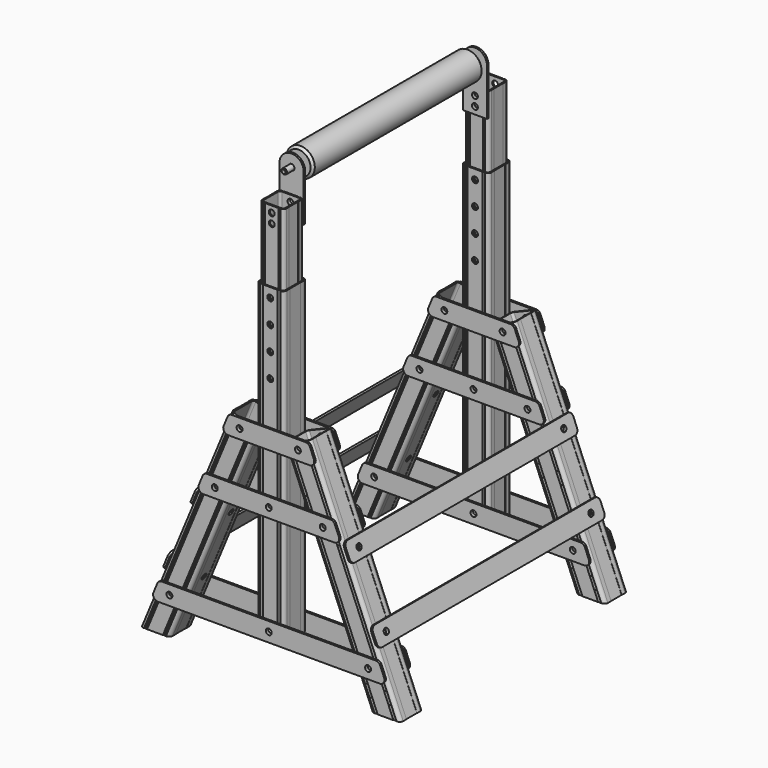
from build123d import *

# Parameters (mm, degrees)
F0_R      = 6.25
F1_DEPTH  = 60
F2_R      = 6.25
F3_DEPTH  = 57.7
F4_R      = 7.5
F6_DEPTH  = 501
F7_W      = 57.7
F7_H      = 653.6524637726
F7_R      = 6.25
F8_DEPTH  = 60
F9_R      = 7.5
F11_DEPTH = 653.6524637726
F15_W     = 51
F15_H     = 540
F15_R     = 6.25
F16_DEPTH = 26.15
F17_R     = 7.5
F19_DEPTH = 540
F21_R     = 6.25
F22_DEPTH = 4
F23_R     = 10
F23_2_R   = 10
F23_3_R   = 10
F25_R     = 6.25
F26_DEPTH = 4
F29_W     = 600
F29_H     = 40
F29_R     = 6.25
F30_DEPTH = 4
F31_R     = 10
F31_2_R   = 10
F34_R     = 5.9
F35_DEPTH = 265
F36_R     = 30
F36_R_2   = 6.25
F37_DEPTH = 225
F38_SIZE  = 2
F39_SIZE  = 5


with BuildPart() as f1:
    # F0 (on Front) → F1 (new body)
    with BuildSketch(Plane.XZ):
        Polygon((-62.4540299569, 0), (0, 0), (-191.3417161825, 461.9397662556), (-244.6495652084, 439.8589322082), align=None)
        with Locations((-64.9222677495, 81.3475362274)):
            Circle(F0_R, mode=Mode.SUBTRACT)
        with Locations((-160.5931258407, 312.3174193552)):
            Circle(F0_R, mode=Mode.SUBTRACT)
        with Locations((-213.0207560747, 438.8889153093)):
            Circle(F0_R, mode=Mode.SUBTRACT)
    extrude(amount=F1_DEPTH)

    # F2 (on face) → F3 (cut, through all)
    with BuildSketch(Plane(origin=(0, 0, 0), x_dir=(0, 1, 0), z_dir=(0.9238795325, 0, 0.3826834324))):
        with Locations((-30, 150)):
            Circle(F2_R)
        with Locations((-30, 300)):
            Circle(F2_R)
    extrude(amount=-F3_DEPTH, mode=Mode.SUBTRACT)

    # F4
    f4_edges = [f1.edges().sort_by_distance(p)[0] for p in [
        (-153.551798, -60, 219.929466),
        (-95.670858, -60, 230.969883),
        (-153.551798, 0, 219.929466),
        (-95.670858, 0, 230.969883),
    ]]
    fillet(f4_edges, radius=F4_R)

    # F5 (on face) → F6 (cut, up to face)
    with BuildSketch(Plane(origin=(-191.3417161825, 0, 461.9397662556), x_dir=(0.9238795325, 0, 0.3826834324), z_dir=(-0.3826834324, 0, 0.9238795325))):
        Polygon((-45.2, -59), (-46.2, -60), (-44.2, -60), align=None)
        Polygon((-47.2, -59), (-48.2, -60), (-46.2, -60), align=None)
        Polygon((-49.2, -59), (-50.2, -60), (-48.2, -60), align=None)
        Polygon((-8.5, -59), (-9.5, -60), (-7.5, -60), align=None)
        Polygon((-10.5, -59), (-11.5, -60), (-9.5, -60), align=None)
        Polygon((-12.5, -59), (-13.5, -60), (-11.5, -60), align=None)
        Polygon((-0.3, -44), (0, -44), (0, -16), (-0.3, -16), (-0.3, -30), align=None)
        Polygon((-57.4, -44), (-57.4, -30), (-57.4, -16), (-57.7, -16), (-57.7, -44), align=None)
        Polygon((-48.2, 0), (-50.2, 0), (-49.2, -1), align=None)
        Polygon((-46.2, 0), (-48.2, 0), (-47.2, -1), align=None)
        Polygon((-44.2, 0), (-46.2, 0), (-45.2, -1), align=None)
        Polygon((-7.5, 0), (-9.5, 0), (-8.5, -1), align=None)
        Polygon((-9.5, 0), (-11.5, 0), (-10.5, -1), align=None)
        Polygon((-11.5, 0), (-13.5, 0), (-12.5, -1), align=None)
        with BuildLine():
            Line((-54.8, -30), (-54.8, -52.5))
            ThreePointArc((-54.8, -52.5), (-53.4526911935, -55.7526911935), (-50.2, -57.1))
            Line((-50.2, -57.1), (-28.85, -57.1))
            Line((-28.85, -57.1), (-7.5, -57.1))
            ThreePointArc((-7.5, -57.1), (-4.2473088065, -55.7526911935), (-2.9, -52.5))
            Line((-2.9, -52.5), (-2.9, -30))
            Line((-2.9, -30), (-2.9, -7.5))
            ThreePointArc((-2.9, -7.5), (-4.2473088065, -4.2473088065), (-7.5, -2.9))
            Line((-7.5, -2.9), (-28.85, -2.9))
            Line((-28.85, -2.9), (-50.2, -2.9))
            ThreePointArc((-50.2, -2.9), (-53.4526911935, -4.2473088065), (-54.8, -7.5))
            Line((-54.8, -7.5), (-54.8, -30))
        make_face()
    extrude(amount=-F6_DEPTH, mode=Mode.SUBTRACT)


with BuildPart() as f8:
    # F7 (on face) → F8 (new body)
    with BuildSketch(Plane.XZ.offset(60)):
        with Locations((-274.4995652084, 393.1737681137)):
            Rectangle(F7_W, F7_H)
        with Locations((-274.4995652084, 81.3475362274)):
            Circle(F7_R, mode=Mode.SUBTRACT)
        with Locations((-274.4995652084, 312.3174193552)):
            Circle(F7_R, mode=Mode.SUBTRACT)
        with Locations((-274.4995652084, 600)):
            Circle(F7_R, mode=Mode.SUBTRACT)
        with Locations((-274.4995652084, 650)):
            Circle(F7_R, mode=Mode.SUBTRACT)
        with Locations((-274.4995652084, 700)):
            Circle(F7_R, mode=Mode.SUBTRACT)
        with Locations((-274.4995652084, 550)):
            Circle(F7_R, mode=Mode.SUBTRACT)
    extrude(amount=-F8_DEPTH)

    # F9
    f9_edges = [f8.edges().sort_by_distance(p)[0] for p in [
        (-303.349565, 0, 393.173768),
        (-303.349565, -60, 393.173768),
        (-245.649565, -60, 393.173768),
        (-245.649565, 0, 393.173768),
    ]]
    fillet(f9_edges, radius=F9_R)

    # F10 (on face) → F11 (cut, through all)
    with BuildSketch(Plane.XY.offset(720)):
        Polygon((-290.8495652084, -59), (-291.8495652084, -60), (-289.8495652084, -60), align=None)
        Polygon((-292.8495652084, -59), (-293.8495652084, -60), (-291.8495652084, -60), align=None)
        Polygon((-294.8495652084, -59), (-295.8495652084, -60), (-293.8495652084, -60), align=None)
        Polygon((-303.3495652084, -16), (-303.3495652084, -44), (-303.0495652084, -44), (-303.0495652084, -30), (-303.0495652084, -16), align=None)
        Polygon((-254.1495652084, -59), (-255.1495652084, -60), (-253.1495652084, -60), align=None)
        Polygon((-256.1495652084, -59), (-257.1495652084, -60), (-255.1495652084, -60), align=None)
        Polygon((-258.1495652084, -59), (-259.1495652084, -60), (-257.1495652084, -60), align=None)
        Polygon((-245.9495652084, -44), (-245.6495652084, -44), (-245.6495652084, -16), (-245.9495652084, -16), (-245.9495652084, -30), align=None)
        Polygon((-253.1495652084, 0), (-255.1495652084, 0), (-254.1495652084, -1), align=None)
        Polygon((-255.1495652084, 0), (-257.1495652084, 0), (-256.1495652084, -1), align=None)
        Polygon((-257.1495652084, 0), (-259.1495652084, 0), (-258.1495652084, -1), align=None)
        Polygon((-293.8495652084, 0), (-295.8495652084, 0), (-294.8495652084, -1), align=None)
        Polygon((-291.8495652084, 0), (-293.8495652084, 0), (-292.8495652084, -1), align=None)
        Polygon((-289.8495652084, 0), (-291.8495652084, 0), (-290.8495652084, -1), align=None)
        with BuildLine():
            Line((-300.4495652084, -30), (-300.4495652084, -52.5))
            ThreePointArc((-300.4495652084, -52.5), (-299.1022564019, -55.7526911935), (-295.8495652084, -57.1))
            Line((-295.8495652084, -57.1), (-274.4995652084, -57.1))
            Line((-274.4995652084, -57.1), (-253.1495652084, -57.1))
            ThreePointArc((-253.1495652084, -57.1), (-249.896874015, -55.7526911935), (-248.5495652084, -52.5))
            Line((-248.5495652084, -52.5), (-248.5495652084, -30))
            Line((-248.5495652084, -30), (-248.5495652084, -7.5))
            ThreePointArc((-248.5495652084, -7.5), (-249.896874015, -4.2473088065), (-253.1495652084, -2.9))
            Line((-253.1495652084, -2.9), (-274.4995652084, -2.9))
            Line((-274.4995652084, -2.9), (-295.8495652084, -2.9))
            ThreePointArc((-295.8495652084, -2.9), (-299.1022564019, -4.2473088065), (-300.4495652084, -7.5))
            Line((-300.4495652084, -7.5), (-300.4495652084, -30))
        make_face()
    extrude(amount=-F11_DEPTH, mode=Mode.SUBTRACT)


with BuildPart() as f16:
    # F15 (on mid) → F16 (new body, symmetric)
    with BuildSketch(Plane(origin=(0, -30, 0), x_dir=(-1, 0, 0), z_dir=(0, 1, 0))):
        with Locations((274.4995652084, 600)):
            Rectangle(F15_W, F15_H)
        with Locations((274.4995652084, 350)):
            Circle(F15_R, mode=Mode.SUBTRACT)
        with Locations((274.4995652084, 400)):
            Circle(F15_R, mode=Mode.SUBTRACT)
        with Locations((274.4995652084, 450)):
            Circle(F15_R, mode=Mode.SUBTRACT)
        with Locations((274.4995652084, 500)):
            Circle(F15_R, mode=Mode.SUBTRACT)
        with Locations((274.4995652084, 550)):
            Circle(F15_R, mode=Mode.SUBTRACT)
        with Locations((274.4995652084, 600)):
            Circle(F15_R, mode=Mode.SUBTRACT)
        with Locations((274.4995652084, 650)):
            Circle(F15_R, mode=Mode.SUBTRACT)
        with Locations((274.4995652084, 700)):
            Circle(F15_R, mode=Mode.SUBTRACT)
        with Locations((274.4995652084, 836.25)):
            Circle(F15_R, mode=Mode.SUBTRACT)
        with Locations((274.4995652084, 856.25)):
            Circle(F15_R, mode=Mode.SUBTRACT)
    extrude(amount=F16_DEPTH, both=True)

    # F17
    f17_edges = [f16.edges().sort_by_distance(p)[0] for p in [
        (-248.999565, -56.15, 600),
        (-299.999565, -56.15, 600),
        (-248.999565, -3.85, 600),
        (-299.999565, -3.85, 600),
    ]]
    fillet(f17_edges, radius=F17_R)

    # F18 (on face) → F19 (cut, through all)
    with BuildSketch(Plane.XY.offset(870)):
        Polygon((-248.9995652084, -42.15), (-248.9995652084, -17.85), (-249.2495652084, -17.85), (-249.2495652084, -30), (-249.2495652084, -42.15), align=None)
        Polygon((-299.7495652084, -17.85), (-299.9995652084, -17.85), (-299.9995652084, -42.15), (-299.7495652084, -42.15), (-299.7495652084, -30), align=None)
        Polygon((-292.4995652084, -56.15), (-290.4995652084, -56.15), (-291.4995652084, -55.15), align=None)
        Polygon((-290.4995652084, -56.15), (-288.4995652084, -56.15), (-289.4995652084, -55.15), align=None)
        Polygon((-258.4995652084, -56.15), (-256.4995652084, -56.15), (-257.4995652084, -55.15), align=None)
        Polygon((-260.4995652084, -56.15), (-258.4995652084, -56.15), (-259.4995652084, -55.15), align=None)
        Polygon((-257.4995652084, -4.85), (-256.4995652084, -3.85), (-258.4995652084, -3.85), align=None)
        Polygon((-259.4995652084, -4.85), (-258.4995652084, -3.85), (-260.4995652084, -3.85), align=None)
        Polygon((-291.4995652084, -4.85), (-290.4995652084, -3.85), (-292.4995652084, -3.85), align=None)
        Polygon((-289.4995652084, -4.85), (-288.4995652084, -3.85), (-290.4995652084, -3.85), align=None)
        with BuildLine():
            Line((-251.8995652084, -30), (-251.8995652084, -11.35))
            ThreePointArc((-251.8995652084, -11.35), (-253.246874015, -8.0973088065), (-256.4995652084, -6.75))
            Line((-256.4995652084, -6.75), (-274.4995652084, -6.75))
            Line((-274.4995652084, -6.75), (-292.4995652084, -6.75))
            ThreePointArc((-292.4995652084, -6.75), (-295.7522564019, -8.0973088065), (-297.0995652084, -11.35))
            Line((-297.0995652084, -11.35), (-297.0995652084, -30))
            Line((-297.0995652084, -30), (-297.0995652084, -48.65))
            ThreePointArc((-297.0995652084, -48.65), (-295.7522564019, -51.9026911935), (-292.4995652084, -53.25))
            Line((-292.4995652084, -53.25), (-274.4995652084, -53.25))
            Line((-274.4995652084, -53.25), (-256.4995652084, -53.25))
            ThreePointArc((-256.4995652084, -53.25), (-253.246874015, -51.9026911935), (-251.8995652084, -48.65))
            Line((-251.8995652084, -48.65), (-251.8995652084, -30))
        make_face()
    extrude(amount=-F19_DEPTH, mode=Mode.SUBTRACT)


with BuildPart() as f20_1:
    # F20: instance of F1
    add(f1.part.mirror(Plane(origin=(-274.4995652084, -30, 393.1737681137), x_dir=(0, 1, 0), z_dir=(1, 0, 0))))


with BuildPart() as f22:
    # F21 (on face) → F22 (new body)
    with BuildSketch(Plane.XZ.offset(60)):
        Polygon((-137.6503821098, 332.3174193552), (-411.3487483071, 332.3174193552), (-427.9172908021, 292.3174193552), (-121.0818396148, 292.3174193552), align=None)
        with Locations((-388.4060045762, 312.3174193552)):
            Circle(F21_R, mode=Mode.SUBTRACT)
        with Locations((-274.4995652084, 312.3174193552)):
            Circle(F21_R, mode=Mode.SUBTRACT)
        with Locations((-160.5931258407, 312.3174193552)):
            Circle(F21_R, mode=Mode.SUBTRACT)
    extrude(amount=F22_DEPTH)

    # F23#2
    f23_2_edges = [f22.edges().sort_by_distance(p)[0] for p in [
        (-137.650382, -62, 332.317419),
        (-121.08184, -62, 292.317419),
        (-427.917291, -62, 292.317419),
        (-411.348748, -62, 332.317419),
    ]]
    fillet(f23_2_edges, radius=F23_2_R)


with BuildPart() as f22b:
    # F21 (on face) → F22, piece 2 (new body)
    with BuildSketch(Plane.XZ.offset(60)):
        Polygon((-41.9795240185, 101.3475362274), (-507.0196063984, 101.3475362274), (-523.5881488933, 61.3475362274), (-25.4109815236, 61.3475362274), align=None)
        with Locations((-484.0768626674, 81.3475362274)):
            Circle(F21_R, mode=Mode.SUBTRACT)
        with Locations((-274.4995652084, 81.3475362274)):
            Circle(F21_R, mode=Mode.SUBTRACT)
        with Locations((-64.9222677495, 81.3475362274)):
            Circle(F21_R, mode=Mode.SUBTRACT)
    extrude(amount=F22_DEPTH)

    # F23
    f23_edges = [f22b.edges().sort_by_distance(p)[0] for p in [
        (-523.588149, -62, 61.347536),
        (-507.019606, -62, 101.347536),
        (-25.410982, -62, 61.347536),
        (-41.979524, -62, 101.347536),
    ]]
    fillet(f23_edges, radius=F23_R)


with BuildPart() as f22c:
    # F21 (on face) → F22, piece 3 (new body)
    with BuildSketch(Plane.XZ.offset(60)):
        Polygon((-190.0780123438, 458.8889153093), (-358.9211180731, 458.8889153093), (-375.489660568, 418.8889153093), (-173.5094698489, 418.8889153093), align=None)
        with Locations((-335.9783743421, 438.8889153093)):
            Circle(F21_R, mode=Mode.SUBTRACT)
        with Locations((-213.0207560747, 438.8889153093)):
            Circle(F21_R, mode=Mode.SUBTRACT)
    extrude(amount=F22_DEPTH)

    # F23#3
    f23_3_edges = [f22c.edges().sort_by_distance(p)[0] for p in [
        (-358.921118, -62, 458.888915),
        (-375.489661, -62, 418.888915),
        (-190.078012, -62, 458.888915),
        (-173.50947, -62, 418.888915),
    ]]
    fillet(f23_3_edges, radius=F23_3_R)


with BuildPart() as f24_1:
    # F24: instance of F22b
    add(f22b.part.mirror(Plane(origin=(-274.4995652084, -30, 390.7594579348), x_dir=(-1, 0, 0), z_dir=(0, 1, 0))))


with BuildPart() as f24_2:
    # F24: instance of F22
    add(f22.part.mirror(Plane(origin=(-274.4995652084, -30, 390.7594579348), x_dir=(-1, 0, 0), z_dir=(0, 1, 0))))


with BuildPart() as f24_3:
    # F24: instance of F22c
    add(f22c.part.mirror(Plane(origin=(-274.4995652084, -30, 390.7594579348), x_dir=(-1, 0, 0), z_dir=(0, 1, 0))))


with BuildPart() as f26:
    # F25 (on face) → F26 (new body)
    with BuildSketch(Plane.XZ.offset(56.15)):
        with BuildLine():
            Line((-299.9995652084, 920), (-299.9995652084, 821.25))
            Line((-299.9995652084, 821.25), (-248.9995652084, 821.25))
            Line((-248.9995652084, 821.25), (-248.9995652084, 920))
            ThreePointArc((-248.9995652084, 920), (-274.4995652084, 945.5), (-299.9995652084, 920))
        make_face()
        with Locations((-274.4995652084, 836.25)):
            Circle(F25_R, mode=Mode.SUBTRACT)
        with Locations((-274.4995652084, 856.25)):
            Circle(F25_R, mode=Mode.SUBTRACT)
        with Locations((-274.4995652084, 920)):
            Circle(F25_R, mode=Mode.SUBTRACT)
    extrude(amount=F26_DEPTH)


with BuildPart() as f28_1:
    # F28: instance of F1
    add(f1.part.mirror(Plane(origin=(-274.4995652084, -300, 389.7798079408), x_dir=(1, 0, 0), z_dir=(0, 1, 0))))


with BuildPart() as f28_2:
    # F28: instance of F20_1
    add(f20_1.part.mirror(Plane(origin=(-274.4995652084, -300, 389.7798079408), x_dir=(1, 0, 0), z_dir=(0, 1, 0))))


with BuildPart() as f28_3:
    # F28: instance of F22b
    add(f22b.part.mirror(Plane(origin=(-274.4995652084, -300, 389.7798079408), x_dir=(1, 0, 0), z_dir=(0, 1, 0))))


with BuildPart() as f28_4:
    # F28: instance of F22
    add(f22.part.mirror(Plane(origin=(-274.4995652084, -300, 389.7798079408), x_dir=(1, 0, 0), z_dir=(0, 1, 0))))


with BuildPart() as f28_5:
    # F28: instance of F22c
    add(f22c.part.mirror(Plane(origin=(-274.4995652084, -300, 389.7798079408), x_dir=(1, 0, 0), z_dir=(0, 1, 0))))


with BuildPart() as f28_6:
    # F28: instance of F24_2
    add(f24_2.part.mirror(Plane(origin=(-274.4995652084, -300, 389.7798079408), x_dir=(1, 0, 0), z_dir=(0, 1, 0))))


with BuildPart() as f28_7:
    # F28: instance of F24_3
    add(f24_3.part.mirror(Plane(origin=(-274.4995652084, -300, 389.7798079408), x_dir=(1, 0, 0), z_dir=(0, 1, 0))))


with BuildPart() as f28_8:
    # F28: instance of F24_1
    add(f24_1.part.mirror(Plane(origin=(-274.4995652084, -300, 389.7798079408), x_dir=(1, 0, 0), z_dir=(0, 1, 0))))


with BuildPart() as f28_9:
    # F28: instance of F8
    add(f8.part.mirror(Plane(origin=(-274.4995652084, -300, 389.7798079408), x_dir=(1, 0, 0), z_dir=(0, 1, 0))))


with BuildPart() as f28_10:
    # F28: instance of F16
    add(f16.part.mirror(Plane(origin=(-274.4995652084, -300, 389.7798079408), x_dir=(1, 0, 0), z_dir=(0, 1, 0))))


with BuildPart() as f28_11:
    # F28: instance of F26
    add(f26.part.mirror(Plane(origin=(-274.4995652084, -300, 389.7798079408), x_dir=(1, 0, 0), z_dir=(0, 1, 0))))


with BuildPart() as f30:
    # F29 (on face) → F30 (new body)
    with BuildSketch(Plane(origin=(0, 0, 0), x_dir=(0, 1, 0), z_dir=(0.9238795325, 0, 0.3826834324))):
        with Locations((-300, 150)):
            Rectangle(F29_W, F29_H)
        with Locations((-570, 150)):
            Circle(F29_R, mode=Mode.SUBTRACT)
        with Locations((-30, 150)):
            Circle(F29_R, mode=Mode.SUBTRACT)
    extrude(amount=F30_DEPTH)

    # F31
    f31_edges = [f30.edges().sort_by_distance(p)[0] for p in [
        (-63.208424, -600, 157.824887),
        (-47.901087, -600, 120.869706),
        (-63.208424, 0, 157.824887),
        (-47.901087, 0, 120.869706),
    ]]
    fillet(f31_edges, radius=F31_R)


with BuildPart() as f30b:
    # F29 (on face) → F30, piece 2 (new body)
    with BuildSketch(Plane(origin=(0, 0, 0), x_dir=(0, 1, 0), z_dir=(0.9238795325, 0, 0.3826834324))):
        with Locations((-300, 300)):
            Rectangle(F29_W, F29_H)
        with Locations((-570, 300)):
            Circle(F29_R, mode=Mode.SUBTRACT)
        with Locations((-30, 300)):
            Circle(F29_R, mode=Mode.SUBTRACT)
    extrude(amount=F30_DEPTH)

    # F31#2
    f31_2_edges = [f30b.edges().sort_by_distance(p)[0] for p in [
        (-120.610939, -600, 296.406817),
        (-105.303602, -600, 259.451636),
        (-105.303602, 0, 259.451636),
        (-120.610939, 0, 296.406817),
    ]]
    fillet(f31_2_edges, radius=F31_2_R)


with BuildPart() as f33_1:
    # F33: instance of F30
    add(f30.part.mirror(Plane(origin=(-274.4995652084, -30, 600), x_dir=(0, -1, 0), z_dir=(-1, 0, 0))))


with BuildPart() as f33_2:
    # F33: instance of F30b
    add(f30b.part.mirror(Plane(origin=(-274.4995652084, -30, 600), x_dir=(0, -1, 0), z_dir=(-1, 0, 0))))


with BuildPart() as f35:
    # F34 (on offset) → F35 (new body, symmetric)
    with BuildSketch(Plane(origin=(0, -300, 0), x_dir=(-1, 0, 0), z_dir=(0, 1, 0))):
        with Locations((274.4995652084, 920)):
            Circle(F34_R)
    extrude(amount=F35_DEPTH, both=True)

    # F38
    f38_edges = [f35.edges().sort_by_distance(p)[0] for p in [
        (-268.599565, -35, 920),
        (-268.599565, -565, 920),
    ]]
    chamfer(f38_edges, length=F38_SIZE)


with BuildPart() as f37:
    # F36 (on offset) → F37 (new body, symmetric)
    with BuildSketch(Plane(origin=(0, -300, 0), x_dir=(-1, 0, 0), z_dir=(0, 1, 0))):
        with Locations((274.4995652084, 920)):
            Circle(F36_R)
        with Locations((274.4995652084, 920)):
            Circle(F36_R_2, mode=Mode.SUBTRACT)
    extrude(amount=F37_DEPTH, both=True)

    # F39
    f39_edges = [f37.edges().sort_by_distance(p)[0] for p in [
        (-244.499565, -75, 920),
        (-244.499565, -525, 920),
    ]]
    chamfer(f39_edges, length=F39_SIZE)


solid = Compound([f1.part, f8.part, f16.part, f20_1.part, f22.part, f22b.part, f22c.part, f24_1.part, f24_2.part, f24_3.part, f26.part, f28_1.part, f28_2.part, f28_3.part, f28_4.part, f28_5.part, f28_6.part, f28_7.part, f28_8.part, f28_9.part, f28_10.part, f28_11.part, f30.part, f30b.part, f33_1.part, f33_2.part, f35.part, f37.part])
